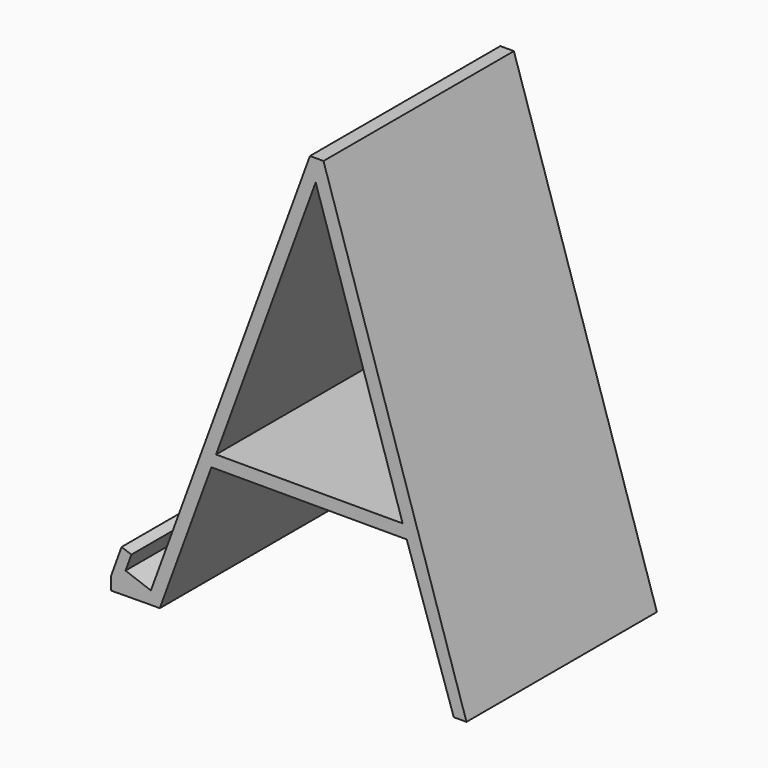
from build123d import *

# Parameters (mm, degrees)
F1_DEPTH = 88.9


with BuildPart() as f1:
    # F0 (on Front) → F1 (new body)
    with BuildSketch(Plane.XZ):
        Polygon((53.412888, 0), (0, 167.077348), (-5.068147, 167.077348), (-64.475396, 4.895769), (-73.939636, 8.340181), (-71.767969, 14.307288), (-75.421233, 15.636856), (-77.5929, 9.669749), (-79.330342, 4.895769), (-79.330342, 0), (-66.222783, 0.125408), (-61.154637, 0.125408), (-41.877323, 52.752407), (-2.916649, 52.752407), (31.086335, 52.752407), (48.650388, 0), align=None)
        Polygon((29.563813, 57.514907), (-2.916649, 57.514907), (-40.132815, 57.514907), (-2.916649, 159.114907), align=None, mode=Mode.SUBTRACT)
    extrude(amount=F1_DEPTH)


solid = f1.part
